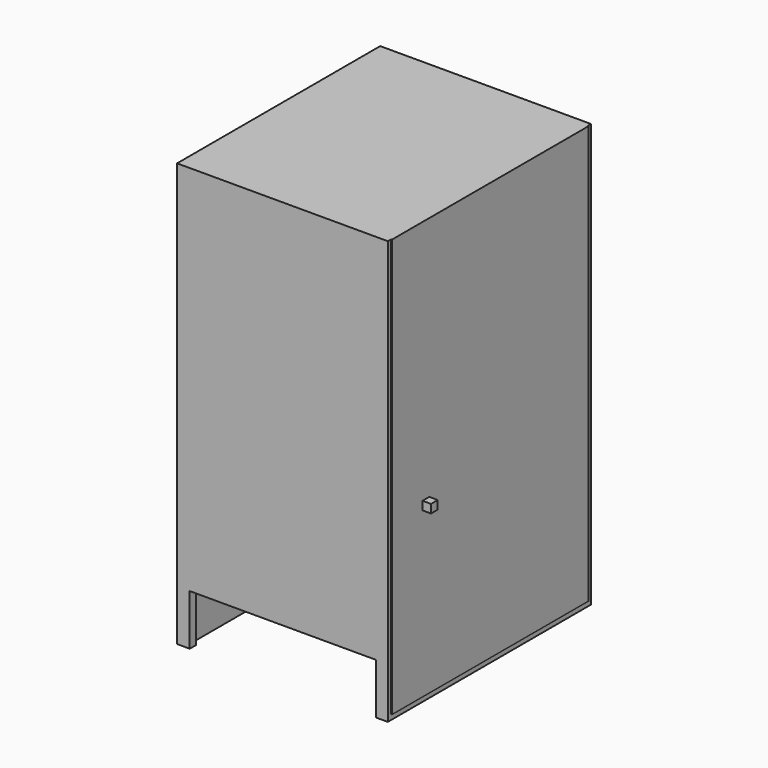
from build123d import *

# Parameters (mm, degrees)
F0_W      = 25
F0_H      = 30
F0_W_2    = 23.2
F0_H_2    = 28.2
F1_DEPTH  = 50
F2_W      = 25
F2_H      = 30
F3_DEPTH  = 1
F4_W      = 1
F4_H      = 1
F5_DEPTH  = 1
F6_W      = 22
F6_H      = 6
F7_DEPTH  = 10
F8_R      = 1.5
F9_DEPTH  = 5
F11_DEPTH = 0.1


with BuildPart() as f1:
    # F0 (on Top) → F1 (new body)
    with BuildSketch(Plane.XY):
        Rectangle(F0_W, F0_H)
        Rectangle(F0_W_2, F0_H_2, mode=Mode.SUBTRACT)
    extrude(amount=F1_DEPTH)

    # F2 (on face) → F3 (join)
    with BuildSketch(Plane.XY.offset(50)):
        Rectangle(F2_W, F2_H)
    extrude(amount=-F3_DEPTH)

    # F4 (on face) → F5 (join)
    with BuildSketch(Plane.YZ.offset(12.5)):
        with Locations((-9.5, 20.5)):
            Rectangle(F4_W, F4_H)
    extrude(amount=F5_DEPTH)

    # F6 (on face) → F7 (cut)
    with BuildSketch(Plane.XZ.offset(15)):
        with Locations((0, 3)):
            Rectangle(F6_W, F6_H)
    extrude(amount=-F7_DEPTH, mode=Mode.SUBTRACT)

    # F8 (on face) → F9 (cut)
    with BuildSketch(Plane(origin=(0, 15, 0), x_dir=(-1, 0, 0), z_dir=(0, 1, 0))):
        Circle(F8_R)
    extrude(amount=-F9_DEPTH, mode=Mode.SUBTRACT)

    # F10 (on face) → F11 (cut)
    with BuildSketch(Plane.YZ.offset(12.5)):
        Polygon((14.5, 0.6), (-14.5, 0.6), (-14.5, 50), (-15, 50), (-15, 0), (15, 0), (15, 50), (14.5, 50), align=None)
    extrude(amount=-F11_DEPTH, mode=Mode.SUBTRACT)


solid = f1.part
